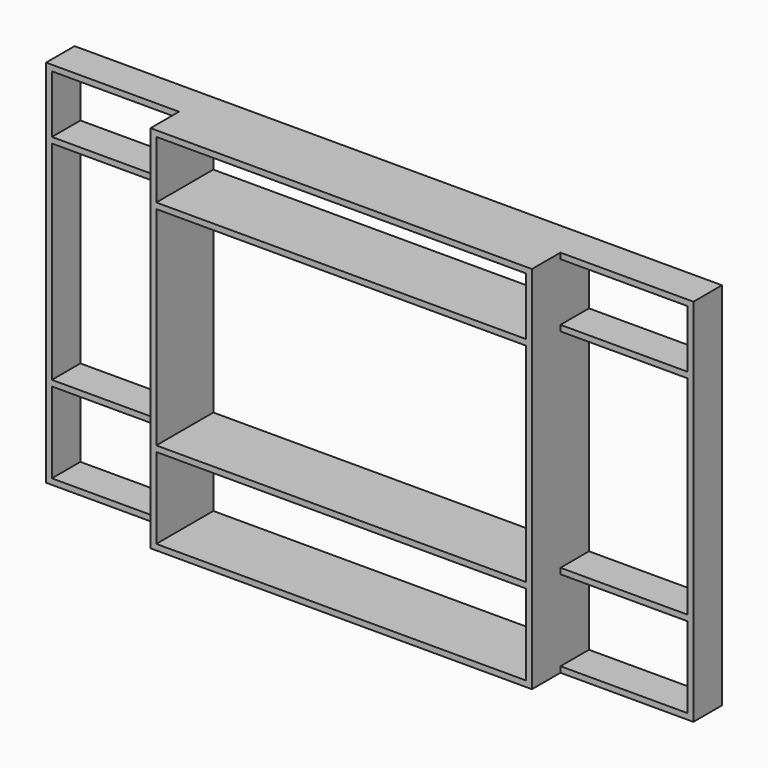
from build123d import *

# Parameters (mm, degrees)
F0_W     = 2438.4
F0_H     = 38.1
F1_DEPTH = 469.9
F0_W_2   = 838.2
F2_DEPTH = 234.95


with BuildPart() as f1:
    # F0 (on Front) → F1 (new body)
    with BuildSketch(Plane.XZ):
        Polygon((457.2, -1219.2), (1257.3, -1219.2), (1257.3, -1181.1), (1219.2, -1181.1), (457.2, -1181.1), (-457.2, -1181.1), (-1219.2, -1181.1), (-1257.3, -1181.1), (-1257.3, -1219.2), (-457.2, -1219.2), align=None)
        Polygon((1257.3, 800.1), (1257.3, 1181.1), (1219.2, 1181.1), (1219.2, 800.1), (1219.2, 762), (1219.2, -609.6), (1219.2, -647.7), (1219.2, -1181.1), (1257.3, -1181.1), (1257.3, -647.7), (1257.3, -609.6), (1257.3, 762), align=None)
        Polygon((1219.2, -647.7), (1219.2, -609.6), (457.2, -609.6), (-457.2, -609.6), (-1219.2, -609.6), (-1219.2, -647.7), (-457.2, -647.7), (457.2, -647.7), align=None)
        Polygon((-1219.2, 1181.1), (-1257.3, 1181.1), (-1257.3, 800.1), (-1257.3, 762), (-1257.3, -609.6), (-1257.3, -647.7), (-1257.3, -1181.1), (-1219.2, -1181.1), (-1219.2, -647.7), (-1219.2, -609.6), (-1219.2, 762), (-1219.2, 800.1), align=None)
        Polygon((1257.3, 1181.1), (1257.3, 1219.2), (-1257.3, 1219.2), (-1257.3, 1181.1), (-1219.2, 1181.1), (1219.2, 1181.1), align=None)
        with Locations((0, 781.05)):
            Rectangle(F0_W, F0_H)
    extrude(amount=F1_DEPTH)

    # F0 (on Front) → F2 (join)
    with BuildSketch(Plane.XZ):
        Polygon((2133.6, 1181.1), (2133.6, 1219.2), (1257.3, 1219.2), (1257.3, 1181.1), (2095.5, 1181.1), align=None)
        Polygon((2133.6, -1181.1), (2133.6, 1181.1), (2095.5, 1181.1), (2095.5, 800.1), (2095.5, 762), (2095.5, -609.6), (2095.5, -647.7), (2095.5, -1181.1), align=None)
        with Locations((1676.4, 781.05)):
            Rectangle(F0_W_2, F0_H)
        with Locations((1676.4, -628.65)):
            Rectangle(F0_W_2, F0_H)
        Polygon((2133.6, -1219.2), (2133.6, -1181.1), (2095.5, -1181.1), (1257.3, -1181.1), (1257.3, -1219.2), align=None)
        with Locations((-1676.4, -628.65)):
            Rectangle(F0_W_2, F0_H)
        Polygon((-2095.5, -1181.1), (-2133.6, -1181.1), (-2133.6, -1219.2), (-1257.3, -1219.2), (-1257.3, -1181.1), align=None)
        Polygon((-2095.5, 1181.1), (-2133.6, 1181.1), (-2133.6, -1181.1), (-2095.5, -1181.1), (-2095.5, -647.7), (-2095.5, -609.6), (-2095.5, 762), (-2095.5, 800.1), align=None)
        with Locations((-1676.4, 781.05)):
            Rectangle(F0_W_2, F0_H)
        Polygon((-1257.3, 1181.1), (-1257.3, 1219.2), (-2133.6, 1219.2), (-2133.6, 1181.1), (-2095.5, 1181.1), align=None)
    extrude(amount=F2_DEPTH)


solid = f1.part
